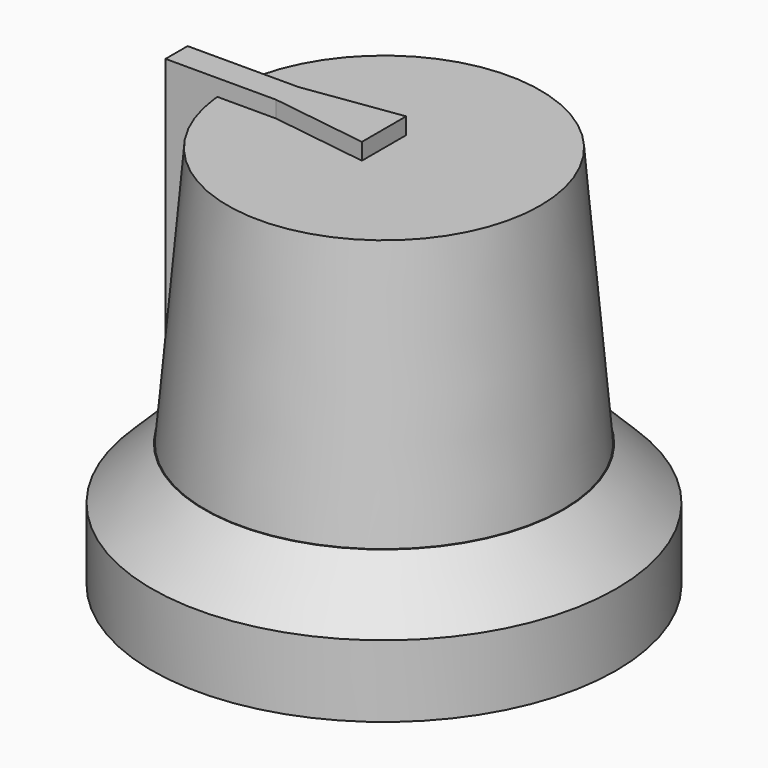
from build123d import *

# Parameters (mm, degrees)
F0_R      = 8.4
F1_DEPTH  = 4.5
F3_R      = 5.65
F4_DEPTH  = 9.4
F4_TAPER  = -5
F5_SIZE   = 1.9
F7_DEPTH  = 0.6
F8_W      = 2
F8_H      = 1
F9_DEPTH  = 10.5
F12_R     = 3
F13_DEPTH = 8.2


with BuildPart() as f1:
    # F0 (on Top) → F1 (new body)
    with BuildSketch(Plane.XY):
        Circle(F0_R)
    extrude(amount=F1_DEPTH)

    # F3 (on offset) → F4 (join, through all)
    with BuildSketch(Plane.XY.offset(13.9)):
        Circle(F3_R)
    extrude(amount=-F4_DEPTH, taper=F4_TAPER)

    # F5
    f5_edges = [f1.edges().sort_by_distance(p)[0] for p in [
        (-8.4, 0, 4.5),
    ]]
    chamfer(f5_edges, length=F5_SIZE)

    # F10 (on Right) → F11 (revolve, cut)
    with BuildSketch(Plane.YZ):
        with BuildLine():
            Line((-6.25, 2), (-6.25, 0))
            Line((-6.25, 0), (0, 0))
            Line((0, 0), (0, 4.2))
            Line((0, 4.2), (-4.0405227408, 4.2))
            ThreePointArc((-4.0405227408, 4.2), (-5.5995119774, 3.5562074482), (-6.25, 2))
        make_face()
    revolve(axis=Axis((0, 0, 2.1), (0, 0, 1)), mode=Mode.SUBTRACT)

    # F12 (on face) → F13 (cut)
    with BuildSketch(Plane(origin=(0, 0, 4.2), x_dir=(1, 0, 0), z_dir=(0, 0, -1))):
        Circle(F12_R)
    extrude(amount=-F13_DEPTH, mode=Mode.SUBTRACT)


with BuildPart() as f7:
    # F6 (on face) → F7 (new body)
    with BuildSketch(Plane.XY.offset(13.9)):
        with BuildLine():
            ThreePointArc((-5.6278326201, -0.5), (-5.65, 0), (-5.6278326201, 0.5))
            Line((-5.6278326201, 0.5), (-7.5, 0.5))
            Line((-7.5, 0.5), (-7.5, -0.5))
            Line((-7.5, -0.5), (-5.6278326201, -0.5))
        make_face()
        with BuildLine():
            Line((0, -1), (0, 1))
            Line((0, 1), (-3.5, 0.5))
            Line((-3.5, 0.5), (-5.6278326201, 0.5))
            ThreePointArc((-5.6278326201, 0.5), (-5.65, 0), (-5.6278326201, -0.5))
            Line((-5.6278326201, -0.5), (-3.5, -0.5))
            Line((-3.5, -0.5), (0, -1))
        make_face()
    extrude(amount=F7_DEPTH)

    # F8 (on face) → F9 (join)
    with BuildSketch(Plane(origin=(0, 0, 13.9), x_dir=(1, 0, 0), z_dir=(0, 0, -1))):
        with Locations((-6.5, 0)):
            Rectangle(F8_W, F8_H)
    extrude(amount=F9_DEPTH)


solid = Compound([f1.part, f7.part])
